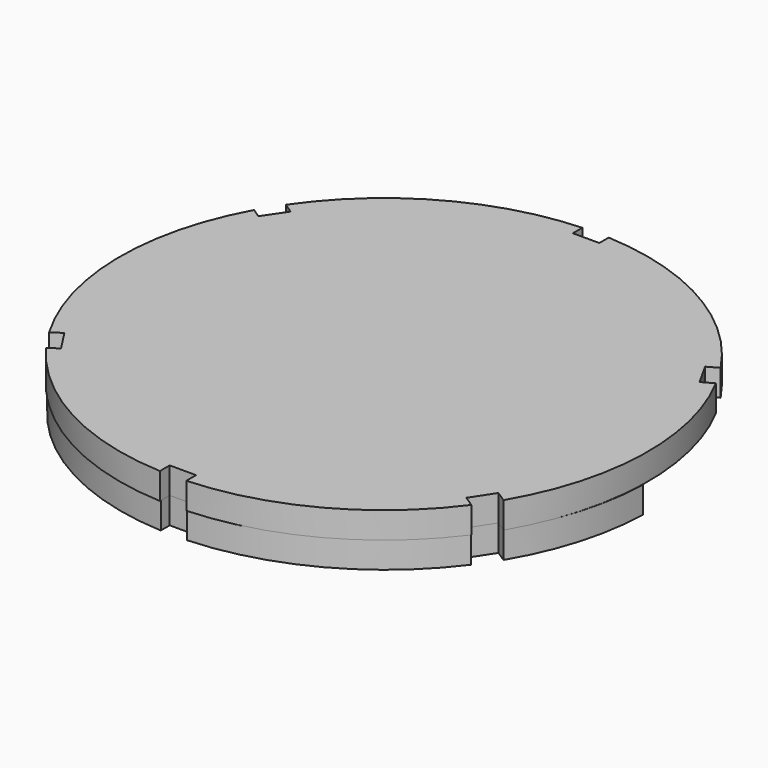
from build123d import *

# Parameters (mm, degrees)
F1_DEPTH  = 20
F2_W      = 20
F2_H      = 10
F3_DEPTH  = 20
F5_DEPTH  = 20
F7_DEPTH  = 20
F8_R      = 200
F9_DEPTH  = 20
F10_DEPTH = 20
F11_DEPTH = 20
F12_DEPTH = 20
F13_W     = 20
F13_H     = 10
F14_DEPTH = 20


with BuildPart() as f1:
    # F0 (on Top) → F1 (new body)
    with BuildSketch(Plane.XY):
        with BuildLine():
            ThreePointArc((-38.9680378139, 12.4435741454), (161.0319621861, -182.017354603), (361.0319621861, 12.4435741454))
            Line((361.0319621861, 12.4435741454), (341.0319621861, 12.4435741454))
            ThreePointArc((341.0319621861, 12.4435741454), (161.0319621861, -161.9579334856), (-18.9680378139, 12.4435741454))
            Line((-18.9680378139, 12.4435741454), (-38.9680378139, 12.4435741454))
        make_face()
    extrude(amount=-F1_DEPTH)

    # F2 (on Top) → F3 (cut)
    with BuildSketch(Plane.XY):
        with Locations((160.8697362244, -178.2794445753)):
            Rectangle(F2_W, F2_H)
    extrude(amount=-F3_DEPTH, mode=Mode.SUBTRACT)

    # F4 (on Top) → F5 (cut)
    with BuildSketch(Plane.XY):
        Polygon((-12.1746574023, -85.1580928149), (-1.2748891549, -101.9269643378), (7.1095466066, -96.477080214), (-3.7902216409, -79.7082086911), align=None)
    extrude(amount=-F5_DEPTH, mode=Mode.SUBTRACT)

    # F6 (on Top) → F7 (cut)
    with BuildSketch(Plane.XY):
        Polygon((313.8510156457, -96.097187023), (322.2134615593, -101.5807532297), (333.1805939725, -84.8558614025), (324.818148059, -79.3722951959), align=None)
    extrude(amount=-F7_DEPTH, mode=Mode.SUBTRACT)

    # F6 (on Top) + F4 (on Top) + F2 (on Top) → F12 (cut)
    with BuildSketch(Plane.XY):
        Polygon((313.8510156457, -96.097187023), (322.2134615593, -101.5807532297), (333.1805939725, -84.8558614025), (324.818148059, -79.3722951959), align=None)
    with BuildSketch(Plane.XY):
        Polygon((-12.1746574023, -85.1580928149), (-1.2748891549, -101.9269643378), (7.1095466066, -96.477080214), (-3.7902216409, -79.7082086911), align=None)
    with BuildSketch(Plane.XY):
        with Locations((160.8697362244, -178.2794445753)):
            Rectangle(F2_W, F2_H)
    extrude(amount=F12_DEPTH, mode=Mode.SUBTRACT)


with BuildPart() as f9:
    # F8 (on Top) → F9 (new body)
    with BuildSketch(Plane.XY):
        with Locations((160.7474684715, 17.1884819865)):
            Circle(F8_R)
    extrude(amount=F9_DEPTH)

    # F6 (on Top) + F4 (on Top) → F10 (cut)
    with BuildSketch(Plane.XY):
        Polygon((313.8510156457, -96.097187023), (322.2134615593, -101.5807532297), (333.1805939725, -84.8558614025), (324.818148059, -79.3722951959), align=None)
    with BuildSketch(Plane.XY):
        Polygon((-12.1746574023, -85.1580928149), (-1.2748891549, -101.9269643378), (7.1095466066, -96.477080214), (-3.7902216409, -79.7082086911), align=None)
    extrude(amount=F10_DEPTH, mode=Mode.SUBTRACT)

    # F2 (on Top) → F11 (cut)
    with BuildSketch(Plane.XY):
        with Locations((160.8697362244, -178.2794445753)):
            Rectangle(F2_W, F2_H)
    extrude(amount=F11_DEPTH, mode=Mode.SUBTRACT)

    # F13 (on Top) → F14 (cut)
    with BuildSketch(Plane.XY):
        Polygon((-4.6685326042, 130.9453286874), (-15.9147333194, 114.4067988412), (-7.6454683963, 108.7836984836), (3.6007323189, 125.3222283298), align=None)
        with Locations((161.3246947527, 212.9703313112)):
            Rectangle(F13_W, F13_H)
        Polygon((328.9325923598, 105.9228052474), (337.6576488008, 110.8088455769), (327.8855681419, 128.2589584589), (319.1605117009, 123.3729181295), align=None)
    extrude(amount=F14_DEPTH, mode=Mode.SUBTRACT)


solid = Compound([f1.part, f9.part])
